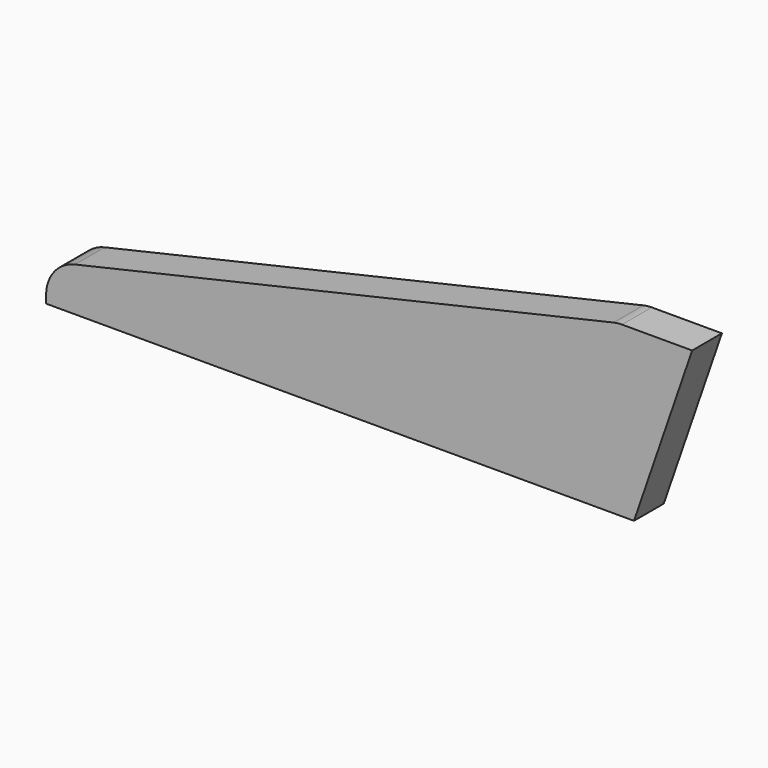
from build123d import *

# Parameters (mm, degrees)
F1_DEPTH = 5


with BuildPart() as f1:
    # F0 (on Front) → F1 (new body)
    with BuildSketch(Plane.XZ):
        with BuildLine():
            Line((-79, 1.020732), (-79, 0))
            Line((-79, 0), (0, 0))
            Line((0, 0), (7.813636, 22.692446))
            Line((7.813636, 22.692446), (-1.617982, 22.692446))
            ThreePointArc((-1.617982, 22.692446), (-2.182727, 22.66045), (-2.740245, 22.564871))
            Line((-2.740245, 22.564871), (-75.122263, 5.893157))
            ThreePointArc((-75.122263, 5.893157), (-77.912245, 4.134306), (-79, 1.020732))
        make_face()
    extrude(amount=F1_DEPTH)


solid = f1.part
